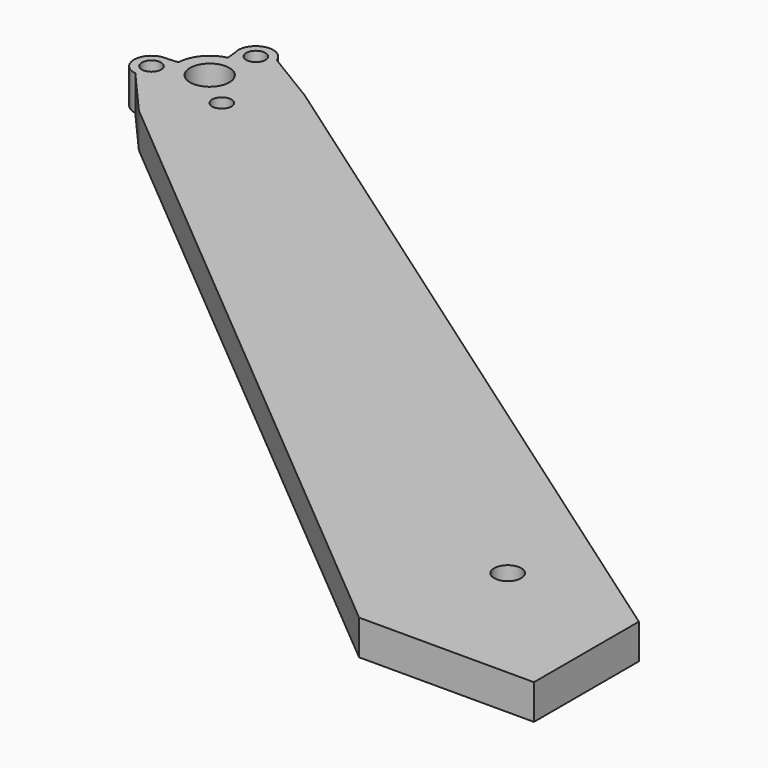
from build123d import *

# Parameters (mm, degrees)
SKETCH_R   = 1.1
SKETCH_R_2 = 2.25
SKETCH_R_3 = 1.55
PAD_DEPTH  = 4


with BuildPart() as part:
    # Sketch → Pad (new body)
    with BuildSketch(Plane.XY):
        with BuildLine():
            Line((-20, 0), (0, 0))
            Line((0, 0), (0, 15))
            Line((0, 15), (-86.897903, 75.846567))
            Line((-86.897903, 75.846567), (-93.096869, 79.602543))
            ThreePointArc((-93.096869, 79.602543), (-95.613656, 80.893196), (-96.904309, 78.37641))
            Line((-96.804881, 77.239939), (-96.904309, 78.37641))
            ThreePointArc((-96.804881, 77.239939), (-98.825686, 75.998429), (-99.697425, 73.792739))
            Line((-99.697425, 73.792739), (-100.833896, 73.69331))
            ThreePointArc((-100.833896, 73.69331), (-103.088327, 71.985229), (-101.380247, 69.730798))
            Line((-96.604444, 64.278761), (-101.380247, 69.730798))
            Line((-20, 0), (-96.604444, 64.278761))
        make_face()
        with Locations((-91.751398, 70.062397)):
            Circle(SKETCH_R, mode=Mode.SUBTRACT)
        with Locations((-95.000589, 78.989476)):
            Circle(SKETCH_R, mode=Mode.SUBTRACT)
        with Locations((-101.107072, 71.712054)):
            Circle(SKETCH_R, mode=Mode.SUBTRACT)
        with Locations((-95.95302, 73.587976)):
            Circle(SKETCH_R_2, mode=Mode.SUBTRACT)
        with Locations((-15, 15)):
            Circle(SKETCH_R_3, mode=Mode.SUBTRACT)
    extrude(amount=PAD_DEPTH)


solid = part.part
